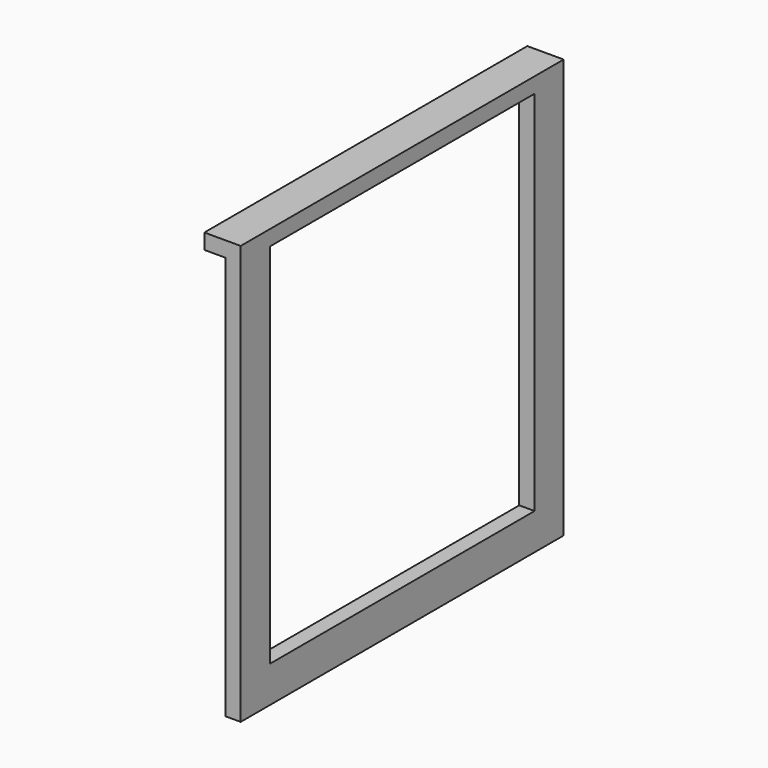
from build123d import *

# Parameters (mm, degrees)
F0_W     = 410
F0_H     = 45
F1_DEPTH = 19
F2_DEPTH = 45


with BuildPart() as f1:
    # F0 (on Right) → F1 (new body)
    with BuildSketch(Plane.YZ):
        Polygon((-205, -464.5), (-205, -9.5), (-250, -9.5), (-250, -509.5), (-205, -509.5), align=None)
        Polygon((250, -509.5), (250, -9.5), (205, -9.5), (205, -464.5), (205, -509.5), align=None)
        with Locations((0, -487)):
            Rectangle(F0_W, F0_H)
    extrude(amount=-F1_DEPTH)

    # F0 (on Right) → F2 (join)
    with BuildSketch(Plane.YZ):
        Polygon((205, -9.5), (250, -9.5), (250, 9.5), (-250, 9.5), (-250, -9.5), (-205, -9.5), align=None)
    extrude(amount=-F2_DEPTH)


solid = f1.part
